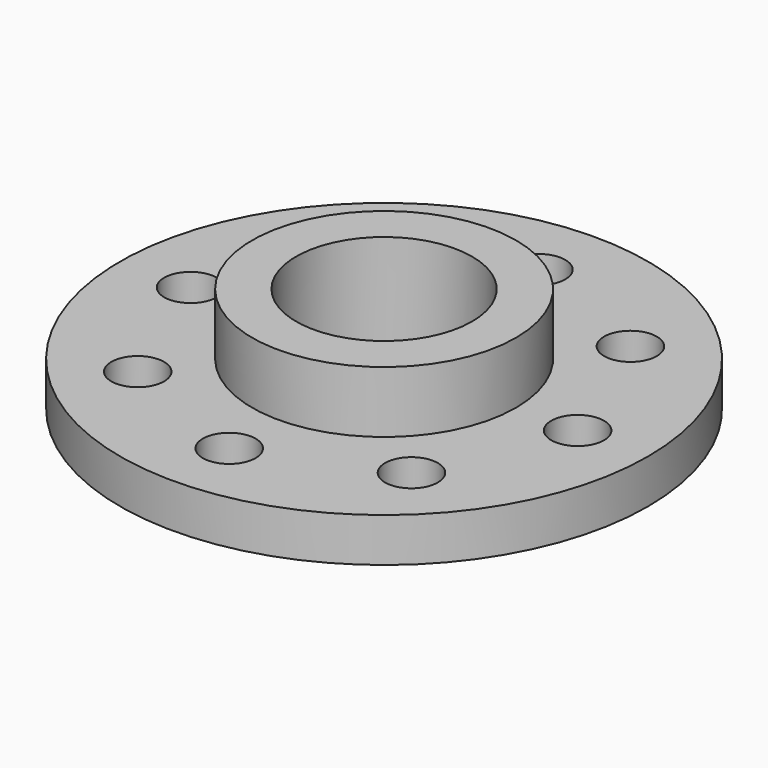
from build123d import *

# Parameters (mm, degrees)
CYLINDER003_R     = 3
CYLINDER003_DEPTH = 10
ARRAY_COUNT       = 8
CYLINDER002_R     = 10
CYLINDER002_DEPTH = 30
CYLINDER001_R     = 15
CYLINDER001_DEPTH = 12
CYLINDER_R        = 30
CYLINDER_DEPTH    = 5


with BuildPart() as array:
    # Cylinder003 → Cylinder003 (new body)
    with BuildSketch(Plane(origin=(22, 0, -3), x_dir=(1, 0, 0), z_dir=(0, 0, 1))):
        Circle(CYLINDER003_R)
    extrude(amount=CYLINDER003_DEPTH)

    # Array: Array ×8 about axis
    array_axis = Axis((0, 0, 0), (0, 0, 1))


with BuildPart() as array_1:
    add(array.part)
    for i in range(1, ARRAY_COUNT):
        add(array.part.rotate(array_axis, i * 360 / ARRAY_COUNT))


with BuildPart() as cilindre002:
    # Cylinder002 → Cylinder002 (new body)
    with BuildSketch(Plane.XY.offset(-9)):
        Circle(CYLINDER002_R)
    extrude(amount=CYLINDER002_DEPTH)


with BuildPart() as cilindre001:
    # Cylinder001 → Cylinder001 (new body)
    with BuildSketch(Plane.XY):
        Circle(CYLINDER001_R)
    extrude(amount=CYLINDER001_DEPTH)


with BuildPart() as cut001:
    # Cylinder → Cylinder (new body)
    with BuildSketch(Plane.XY):
        Circle(CYLINDER_R)
    extrude(amount=CYLINDER_DEPTH)

    # Fusion: union Cilindre001
    add(cilindre001.part)

    # Cut: cut Cilindre002
    add(cilindre002.part, mode=Mode.SUBTRACT)

    # Cut001: cut Array
    add(array_1.part, mode=Mode.SUBTRACT)


solid = cut001.part
